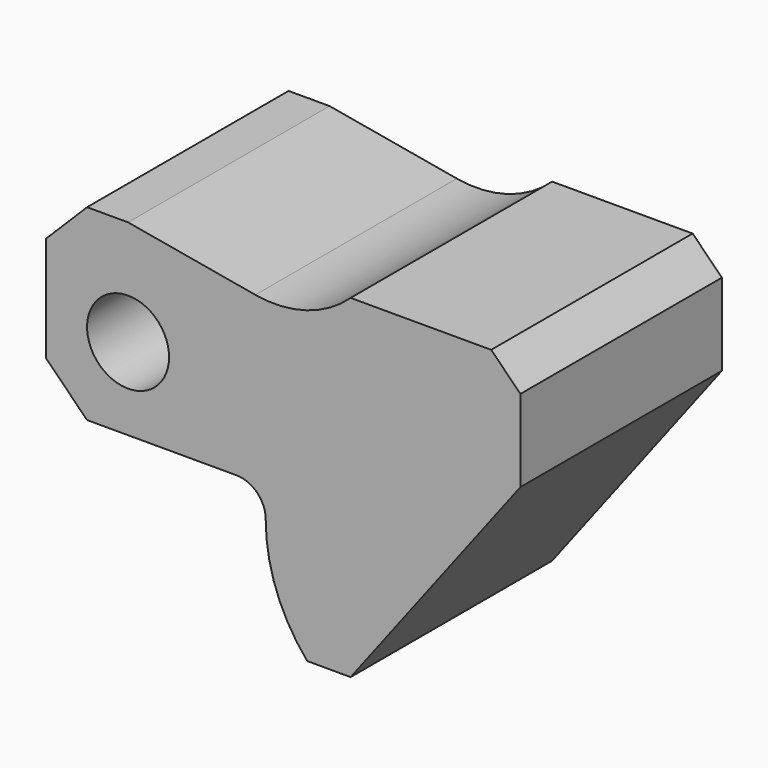
from build123d import *

# Parameters (mm, degrees)
F0_R     = 7
F1_DEPTH = 43


with BuildPart() as f1:
    # F0 (on Front) → F1 (new body)
    with BuildSketch(Plane.XZ):
        with BuildLine():
            Line((38, -38), (67, 0))
            Line((67, 0), (67, 14))
            Line((67, 14), (62, 19))
            Line((62, 19), (38, 19))
            ThreePointArc((38, 19), (30.432679, 14.666025), (21.726318, 14.169064))
            Line((21.726318, 14.169064), (0, 18))
            Line((0, 18), (-7, 18))
            Line((-7, 18), (-14, 11))
            Line((-14, 11), (-14, -7))
            Line((-14, -7), (-7, -14))
            Line((-7, -14), (18.5, -14))
            ThreePointArc((18.5, -14), (22.035534, -15.464466), (23.5, -19))
            ThreePointArc((23.5, -19), (25.330549, -29.140065), (30.591098, -38))
            Line((30.591098, -38), (38, -38))
        make_face()
        Circle(F0_R, mode=Mode.SUBTRACT)
    extrude(amount=F1_DEPTH)


solid = f1.part
